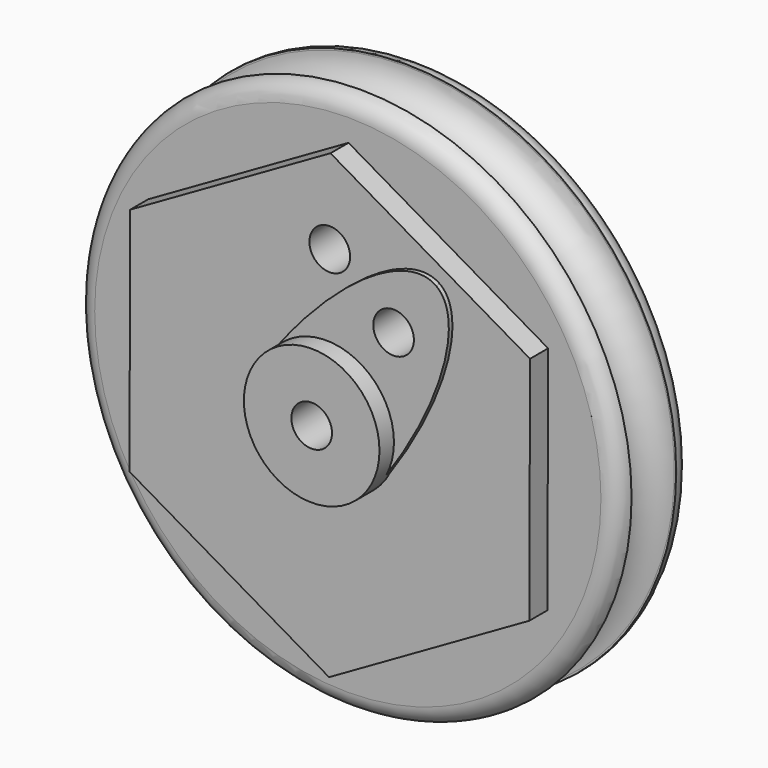
from build123d import *

# Parameters (mm, degrees)
F0_R      = 76.2
F1_DEPTH  = 25.4
F2_R      = 19.05
F3_DEPTH  = 12.7
F5_D      = 11.43
F6_R      = 5.08
F7_R      = 19.05
F8_DEPTH  = 6.35
F10_R     = 7.8225527737
F12_DEPTH = 1.27
F14_D     = 11.43
F16_D     = 11.43


with BuildPart() as f1:
    # F0 (on Front) → F1 (new body)
    with BuildSketch(Plane.XZ):
        Circle(F0_R)
    extrude(amount=F1_DEPTH)

    # F2 (on face) → F3 (join)
    with BuildSketch(Plane.XZ.offset(25.4)):
        Circle(F2_R)
    extrude(amount=F3_DEPTH)

    # F5 (through all)
    with Locations(Plane.XZ.offset(38.1)):
        with Locations((0, 0)):
            Hole(F5_D / 2)

    # F6
    f6_edges = [f1.edges().sort_by_distance(p)[0] for p in [
        (76.2, -12.7, 0),
        (-76.2, 0, 0),
        (-76.2, -25.4, 0),
    ]]
    fillet(f6_edges, radius=F6_R)

    # F7 (on face) → F8 (join)
    with BuildSketch(Plane.XZ.offset(25.4)):
        Polygon((56.2698519268, 32.2579772514), (0.198698189, 64.8601098615), (-56.0711537378, 32.6021326101), (-56.2698519268, -32.2579772514), (-0.198698189, -64.8601098615), (56.0711537378, -32.6021326101), align=None)
        Circle(F7_R, mode=Mode.SUBTRACT)
    extrude(amount=F8_DEPTH)

    # F10 (on Right) → F11 (revolve, cut)
    with BuildSketch(Plane.YZ):
        with Locations((-13.1397730592, 75.685454893)):
            Circle(F10_R)
    revolve(axis=Axis((0, 0, 0), (0, 1, 0)), mode=Mode.SUBTRACT)

    # F9 (on face) → F12 (join)
    with BuildSketch(Plane.XZ.offset(31.75)):
        with BuildLine():
            add(Edge.make_bspline(
                [(16.8863771347, -8.8177529601), (45.3849757119, 32.027099504), (30.9073403478, 42.544644326)],
                knots=[4.7654874781, 4.7654874781, 4.7654874781, 6.2831853072, 6.2831853072, 6.2831853072], degree=2, weights=[1, 0.7256285378, 1]))
            add(Edge.make_bspline(
                [(30.9073403478, 42.544644326), (16.4297049836, 53.0621891479), (-13.6056525978, 13.3337435624)],
                knots=[0, 0, 0, 1.517697829, 1.517697829, 1.517697829], degree=2, weights=[1, 0.7256285378, 1]))
            ThreePointArc((-13.6056525978, 13.3337435624), (7.2012088572, 17.6364704801), (19.05, 0))
            ThreePointArc((19.05, 0), (18.5011889404, -4.5396594357), (16.8863771347, -8.8177529601))
        make_face()
    extrude(amount=F12_DEPTH)

    # F14 (through all)
    with Locations(Plane.XZ.offset(33.02)):
        with Locations((18.9485233277, 27.1311011165)):
            Hole(F14_D / 2)

    # F16 (through all)
    with Locations(Plane.XZ.offset(31.75)):
        with Locations((0, 41.0564467311)):
            Hole(F16_D / 2)


solid = f1.part
